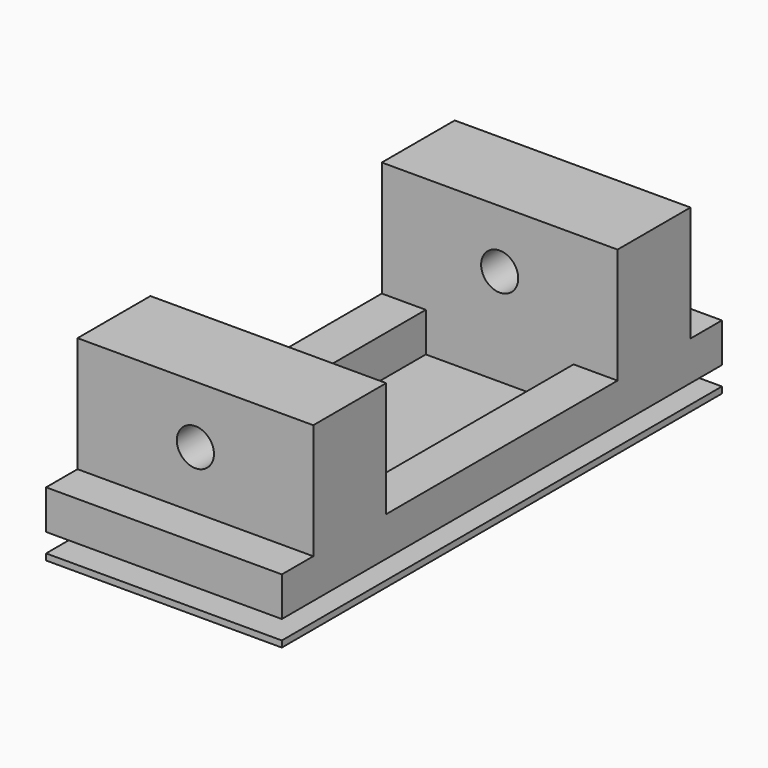
from build123d import *

# Parameters (mm, degrees)
F0_W      = 19.05
F0_H      = 38.1
F0_W_2    = 11.938
F0_H_2    = 23.368
F1_DEPTH  = 12.4968
F2_W      = 19.05
F2_H      = 44.45
F2_W_2    = 11.938
F2_H_2    = 23.368
F3_DEPTH  = 3.175
F4_W      = 3.556
F4_H      = 23.368
F5_DEPTH  = 9.3218
F6_R      = 1.4986
F7_DEPTH  = 41.276
F9_W      = 19.05
F9_H      = 44.45
F10_DEPTH = 0.508


with BuildPart() as f1:
    # F0 (on Top) → F1 (new body)
    with BuildSketch(Plane.XY):
        Rectangle(F0_W, F0_H)
        Rectangle(F0_W_2, F0_H_2, mode=Mode.SUBTRACT)
    extrude(amount=F1_DEPTH)

    # F2 (on face) → F3 (join)
    with BuildSketch(Plane(origin=(0, 0, 0), x_dir=(1, 0, 0), z_dir=(0, 0, -1))):
        Rectangle(F2_W, F2_H)
        Rectangle(F2_W_2, F2_H_2, mode=Mode.SUBTRACT)
    extrude(amount=-F3_DEPTH)

    # F4 (on face) → F5 (cut, through all)
    with BuildSketch(Plane.XY.offset(12.4968)):
        with Locations((-7.747, 0)):
            Rectangle(F4_W, F4_H)
        with Locations((7.747, 0)):
            Rectangle(F4_W, F4_H)
    extrude(amount=-F5_DEPTH, mode=Mode.SUBTRACT)

    # F6 (on face) → F7 (cut, through all)
    with BuildSketch(Plane.XZ.offset(19.05)):
        with Locations((0, 7.8359)):
            Circle(F6_R)
    extrude(amount=-F7_DEPTH, mode=Mode.SUBTRACT)


with BuildPart() as f10:
    # F9 (on offset) → F10 (new body)
    with BuildSketch(Plane(origin=(0, 0, -1.524), x_dir=(1, 0, 0), z_dir=(0, 0, -1))):
        Rectangle(F9_W, F9_H)
    extrude(amount=F10_DEPTH)


solid = Compound([f1.part, f10.part])
